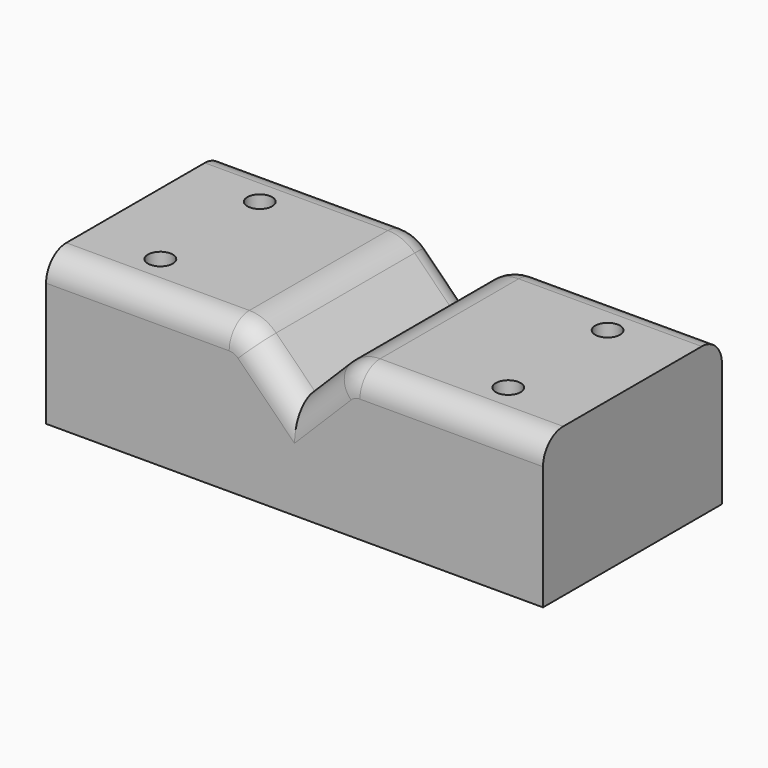
from build123d import *

# Parameters (mm, degrees)
F1_DEPTH = 45
F3_D     = 5
F5_D     = 5
F7_D     = 5
F9_D     = 5
F10_R    = 7.62
F11_R    = 5.08


with BuildPart() as f1:
    # F0 (on Front) → F1 (new body)
    with BuildSketch(Plane.XZ):
        Polygon((50, 20), (20, 20), (10, 20), (0, 10), (-10, 20), (-20, 20), (-50, 20), (-50, 0), (-50, -10), (50, -10), (50, 0), align=None)
    extrude(amount=F1_DEPTH)

    # F3 (through all)
    with Locations(Plane.XY.offset(20)):
        with Locations((35, -35)):
            Hole(F3_D / 2)

    # F5 (through all)
    with Locations(Plane.XY.offset(20)):
        with Locations((35, -10)):
            Hole(F5_D / 2)

    # F7 (through all)
    with Locations(Plane.XY.offset(20)):
        with Locations((-35, -10)):
            Hole(F7_D / 2)

    # F9 (through all)
    with Locations(Plane.XY.offset(20)):
        with Locations((-35, -35)):
            Hole(F9_D / 2)

    # F10
    f10_edges = [f1.edges().sort_by_distance(p)[0] for p in [
        (10, -22.5, 20),
        (-10, -22.5, 20),
    ]]
    fillet(f10_edges, radius=F10_R)

    # F11
    f11_edges = [f1.edges().sort_by_distance(p)[0] for p in [
        (-31.578154, -45, 20),
        (31.578154, -45, 20),
        (31.578154, 0, 20),
        (-31.578154, 0, 20),
    ]]
    fillet(f11_edges, radius=F11_R)


solid = f1.part
